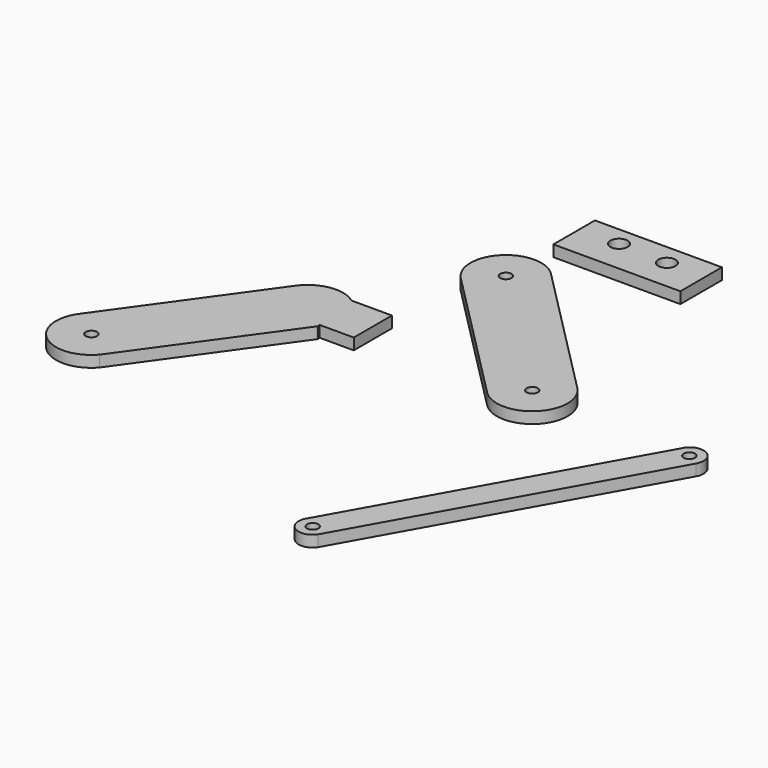
from build123d import *

# Parameters (mm, degrees)
F1_R      = 1.6
F2_DEPTH  = 3.2
F4_DEPTH  = 25
F5_R      = 1.6
F6_DEPTH  = 3.2
F7_W      = 35.8522105962
F7_H      = 14.6616101265
F8_DEPTH  = 3.2
F9_R      = 2.4399255944
F10_DEPTH = 25
F0_R      = 1.6
F11_DEPTH = 3.2
F12_R     = 2.4399255944
F13_DEPTH = 3.2
F14_W     = 13.488072902
F14_H     = 13.4736970067
F15_DEPTH = 3.2


with BuildPart() as f2:
    # F1 (on Top) → F2 (new body)
    with BuildSketch(Plane.XY):
        with BuildLine():
            Line((-52.4111336428, -12.733045686), (-81.516712904, -53.3884912729))
            ThreePointArc((-81.516712904, -53.3884912729), (-79.5872905823, -67.0682565857), (-65.830813644, -65.7962535372))
            Line((-65.830813644, -65.7962535372), (-36.8001743822, -25.2454861304))
            Line((-36.8001743822, -25.2454861304), (-38.3891442742, -11.0743911007))
            ThreePointArc((-38.3891442742, -11.0743911007), (-45.7428894184, -9.0061631411), (-52.4111336428, -12.733045686))
        make_face()
        with Locations((-73.3762812727, -59.2162955103)):
            Circle(F1_R, mode=Mode.SUBTRACT)
        with BuildLine():
            ThreePointArc((-36.7252343828, -25.1408079503), (-34.6374203357, -17.7622214125), (-38.3891442742, -11.0743911007))
            Line((-38.3891442742, -11.0743911007), (-36.8001743822, -25.2454861304))
            Line((-36.8001743822, -25.2454861304), (-36.7252343828, -25.1408079503))
        make_face()
    extrude(amount=F2_DEPTH)

    # F3 (on face) → F4 (cut)
    with BuildSketch(Plane.XY.offset(3.2)):
        with BuildLine():
            add(Edge.make_bspline(
                [(-38.3643028806, -11.0939771882), (-36.5913216543, -11.8065384502), (-32.7913583718, -13.333743923), (-29.3885141198, -22.7559246447), (-34.3564646686, -24.3708127558), (-36.7252343828, -25.1408079503)],
                knots=[0, 0, 0, 0, 0.3139543375, 0.6728864002, 1, 1, 1, 1], degree=3))
            Line((-38.3643028806, -11.0939771882), (-36.7252343828, -25.1408079503))
        make_face()
    extrude(amount=-F4_DEPTH, mode=Mode.SUBTRACT)

    # F14 (on Top) → F15 (join)
    with BuildSketch(Plane.XY):
        with Locations((-33.9069012552, -17.6582150161)):
            Rectangle(F14_W, F14_H)
    extrude(amount=F15_DEPTH)


with BuildPart() as f6:
    # F5 (on Top) → F6 (new body)
    with BuildSketch(Plane.XY):
        with BuildLine():
            Line((25.4004618726, -102.7209598247), (69.3700621518, -24.1927849364))
            ThreePointArc((69.3700621518, -24.1927849364), (68.1389568472, -18.9191209459), (62.7750391721, -19.6644660543))
            Line((62.7750391721, -19.6644660543), (18.8054388929, -98.1926409426))
            ThreePointArc((18.8054388929, -98.1926409426), (19.8387909417, -103.7543118735), (25.4004618726, -102.7209598247))
        make_face()
        with Locations((22.1029503828, -100.4568003836)):
            Circle(F5_R, mode=Mode.SUBTRACT)
        with Locations((65.8653349998, -22.2304134413)):
            Circle(F5_R, mode=Mode.SUBTRACT)
    extrude(amount=F6_DEPTH)


with BuildPart() as f8:
    # F7 (on Top) → F8 (new body)
    with BuildSketch(Plane.XY):
        with Locations((-2.652307041, 45.170430094)):
            Rectangle(F7_W, F7_H)
    extrude(amount=F8_DEPTH)

    # F9 (on face) → F10 (cut)
    with BuildSketch(Plane.XY.offset(3.2)):
        with Locations((-9.4507699832, 47.1021160483)):
            Circle(F9_R)
    extrude(amount=-F10_DEPTH, mode=Mode.SUBTRACT)

    # F12 (on face) → F13 (cut)
    with BuildSketch(Plane.XY.offset(3.2)):
        with Locations((4.4632758945, 46.5906150639)):
            Circle(F12_R)
    extrude(amount=-F13_DEPTH, mode=Mode.SUBTRACT)


with BuildPart() as f11:
    # F0 (on Top) → F11 (new body)
    with BuildSketch(Plane.XY):
        with BuildLine():
            Line((-26.5083782919, 12.5428867212), (12.2063241712, -26.5233623078))
            ThreePointArc((12.2063241712, -26.5233623078), (26.2823887865, -26.652613175), (26.5428882901, -12.5783657404))
            Line((26.5428882901, -12.5783657404), (-12.171814173, 26.4878832886))
            ThreePointArc((-12.171814173, 26.4878832886), (-26.3125945162, 26.6836670643), (-26.5083782919, 12.5428867212))
        make_face()
        with Locations((19.3095873574, -19.484019458)):
            Circle(F0_R, mode=Mode.SUBTRACT)
        with Locations((-19.3400962325, 19.5153850049)):
            Circle(F0_R, mode=Mode.SUBTRACT)
    extrude(amount=F11_DEPTH)


solid = Compound([f2.part, f6.part, f8.part, f11.part])
